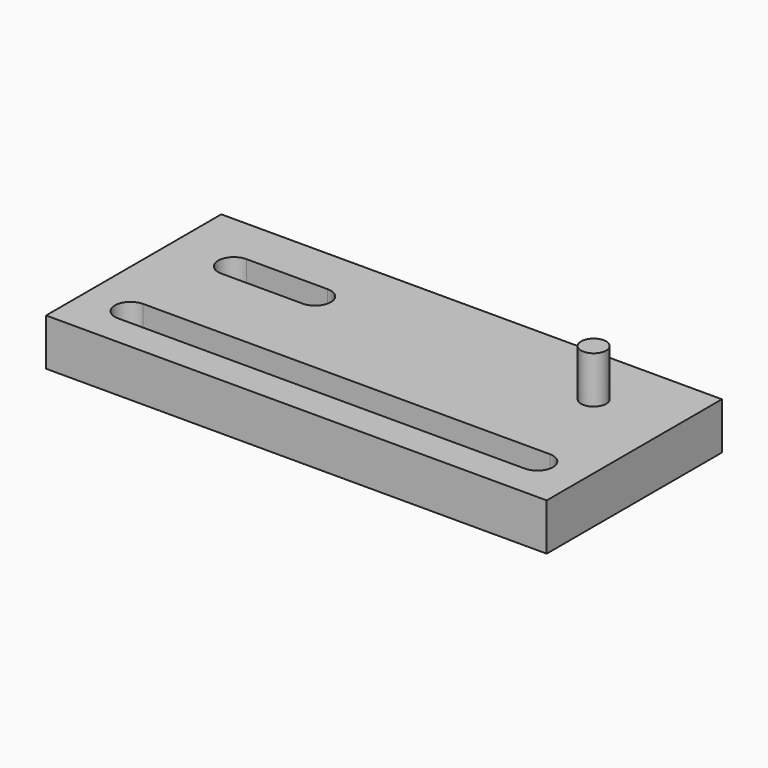
from build123d import *

# Parameters (mm, degrees)
F0_W     = 160
F0_H     = 70
F0_R     = 4
F1_DEPTH = 15
F2_DEPTH = 30


with BuildPart() as f1:
    # F0 (on Top) → F1 (new body)
    with BuildSketch(Plane.XY):
        with Locations((80, 35)):
            Rectangle(F0_W, F0_H)
        with BuildLine():
            ThreePointArc((15, 10), (10, 15), (15, 20))
            Line((15, 20), (145, 20))
            ThreePointArc((145, 20), (150, 15), (145, 10))
            Line((145, 10), (15, 10))
        make_face(mode=Mode.SUBTRACT)
        with BuildLine():
            ThreePointArc((20, 45), (15, 50), (20, 55))
            Line((20, 55), (46, 55))
            ThreePointArc((46, 55), (51, 50), (46, 45))
            Line((46, 45), (20, 45))
        make_face(mode=Mode.SUBTRACT)
        with Locations((135, 50)):
            Circle(F0_R, mode=Mode.SUBTRACT)
        with Locations((135, 50)):
            Circle(F0_R)
    extrude(amount=F1_DEPTH)

    # F0 (on Top) → F2 (join)
    with BuildSketch(Plane.XY):
        with Locations((135, 50)):
            Circle(F0_R)
    extrude(amount=F2_DEPTH)


solid = f1.part
